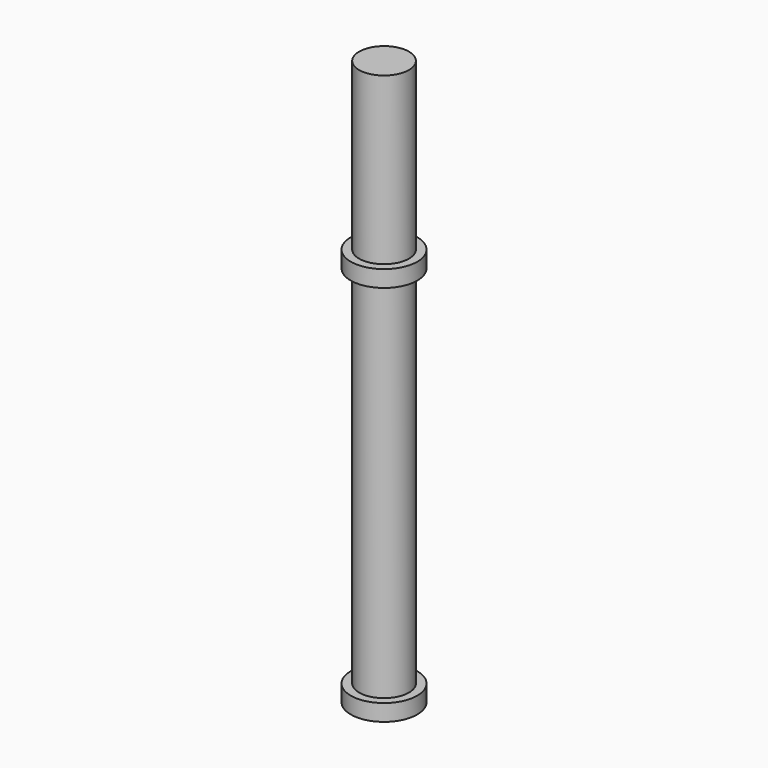
from build123d import *

# Parameters (mm, degrees)
F2_R     = 7.5
F3_DEPTH = 50


with BuildPart() as f1:
    # F0 (on Front) → F1 (revolve)
    with BuildSketch(Plane.XZ):
        Polygon((10, 60), (0, 60), (0, -60), (10, -60), (10, -55), (7.5, -55), (7.5, 0), (7.5, 55), (10, 55), align=None)
    revolve(axis=Axis((0, 0, 0), (0, 0, -1)))

    # F2 (on face) → F3 (join)
    with BuildSketch(Plane.XY.offset(60)):
        Circle(F2_R)
    extrude(amount=F3_DEPTH)


solid = f1.part
